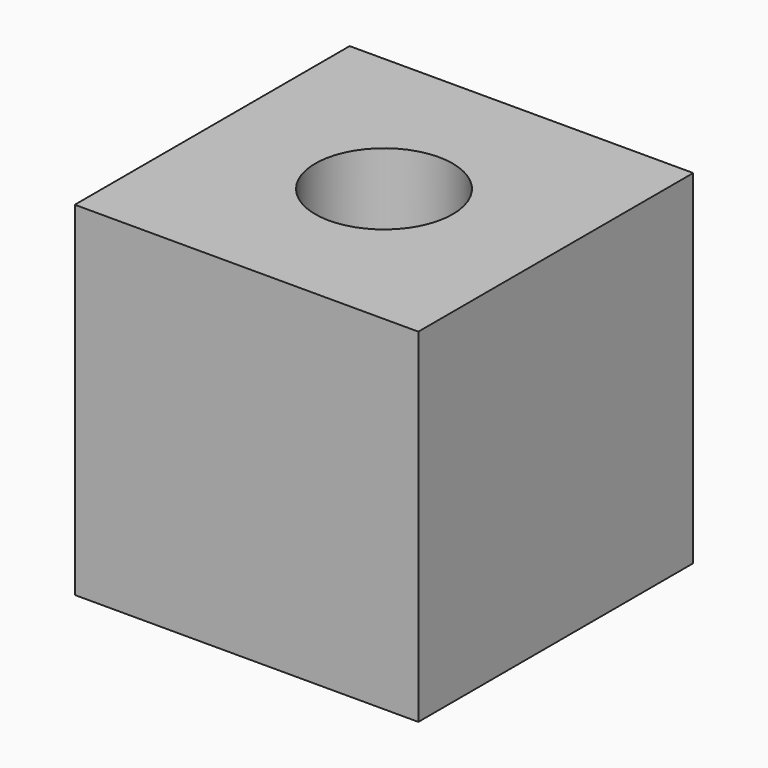
from build123d import *

# Parameters (mm, degrees)
CYLINDER097_R     = 2
CYLINDER097_DEPTH = 10
BOX002_W          = 10
BOX002_H          = 10
BOX002_DEPTH      = 10


with BuildPart() as cylinder:
    # Cylinder097 → Cylinder097 (new body)
    with BuildSketch(Plane(origin=(5, 5, 0), x_dir=(1, 0, 0), z_dir=(0, 0, 1))):
        Circle(CYLINDER097_R)
    extrude(amount=CYLINDER097_DEPTH)


with BuildPart() as test_hole:
    # Box002 → Box002 (new body)
    with BuildSketch(Plane.XY):
        with Locations((5, 5)):
            Rectangle(BOX002_W, BOX002_H)
    extrude(amount=BOX002_DEPTH)

    # Cut003: cut Cylinder
    add(cylinder.part, mode=Mode.SUBTRACT)


solid = test_hole.part
